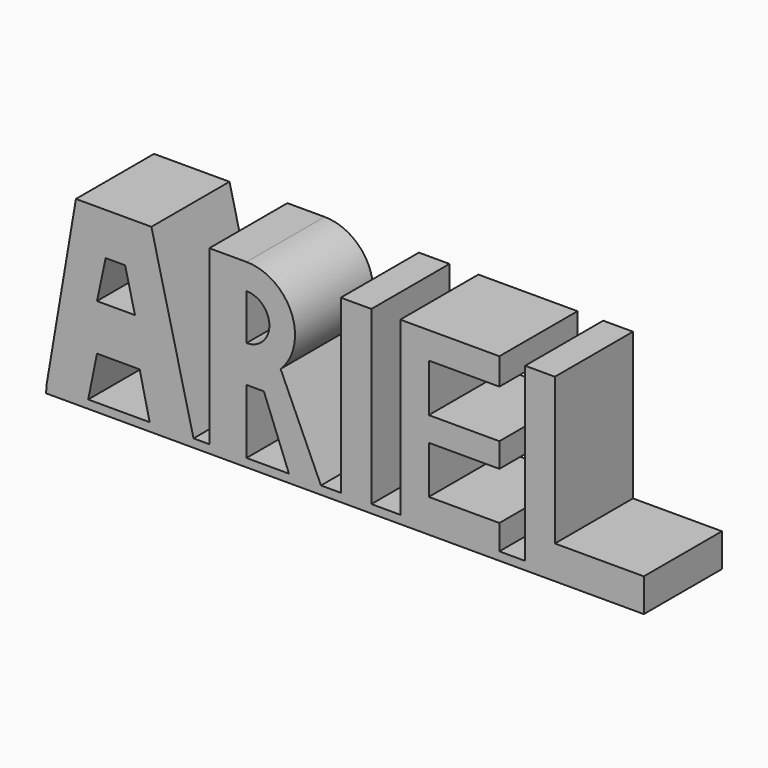
from build123d import *

# Parameters (mm, degrees)
F1_DEPTH = 12.7


with BuildPart() as f1:
    # F0 (on Front) → F1 (new body)
    with BuildSketch(Plane.XZ):
        with BuildLine():
            Line((-32.891244, 22.449998), (-36.696684, 0))
            Line((-36.696684, 0), (-36.773011, -1.079465))
            Line((-36.773011, -1.079465), (40.992558, -1.079465))
            Line((40.992558, -1.079465), (40.992558, 0))
            Line((40.992558, 0), (40.992558, 3.251552))
            Line((40.992558, 3.251552), (29.421905, 3.251552))
            Line((29.421905, 3.251552), (29.421905, 22.348963))
            Line((29.421905, 22.348963), (25.547082, 22.348963))
            Line((25.547082, 22.348963), (25.547082, 0))
            Line((25.547082, 0), (22.203101, 0))
            Line((22.203101, 0), (22.203101, 3.251552))
            Line((22.203101, 3.251552), (13.016432, 3.251552))
            Line((13.016432, 3.251552), (13.016432, 9.451423))
            Line((13.016432, 9.451423), (22.203101, 9.451423))
            Line((22.203101, 9.451423), (22.203101, 12.619239))
            Line((22.203101, 12.619239), (13.016432, 12.619239))
            Line((13.016432, 12.619239), (13.016432, 18.864363))
            Line((13.016432, 18.864363), (22.203101, 18.864363))
            Line((22.203101, 18.864363), (22.203101, 22.348963))
            Line((22.203101, 22.348963), (9.30556, 22.348963))
            Line((9.30556, 22.348963), (9.30556, 0))
            Line((9.30556, 0), (5.549435, 0))
            Line((5.549435, 0), (5.549435, 22.348963))
            Line((5.549435, 22.348963), (1.567037, 22.348963))
            Line((1.567037, 22.348963), (1.567037, 0))
            Line((1.567037, 0), (-1.012471, 0))
            Line((-1.012471, 0), (-6.261996, 11.642559))
            ThreePointArc((-6.261996, 11.642559), (-4.855933, 18.533233), (-10.69694, 22.449998))
            Line((-10.69694, 22.449998), (-15.539174, 22.449998))
            Line((-15.539174, 22.449998), (-15.539174, 0))
            Line((-15.539174, 0), (-17.593389, 0))
            Line((-17.593389, 0), (-23.073219, 22.449998))
            Line((-23.073219, 22.449998), (-32.891244, 22.449998))
        make_face()
        Polygon((-24.595393, 5.629968), (-23.301546, 0), (-31.292964, 0), (-30.151332, 5.629968), align=None, mode=Mode.SUBTRACT)
        Polygon((-5.175888, 0), (-10.69694, 0), (-10.69694, 8.365314), (-8.434214, 8.365314), align=None, mode=Mode.SUBTRACT)
        Polygon((-25.204262, 11.642559), (-30.151332, 11.642559), (-29.018635, 16.933592), (-26.495752, 16.933592), align=None, mode=Mode.SUBTRACT)
        with BuildLine():
            ThreePointArc((-10.69694, 19.111716), (-7.721541, 16.136316), (-10.69694, 13.160917))
            Line((-10.69694, 13.160917), (-10.69694, 19.111716))
        make_face(mode=Mode.SUBTRACT)
    extrude(amount=F1_DEPTH)


solid = f1.part
